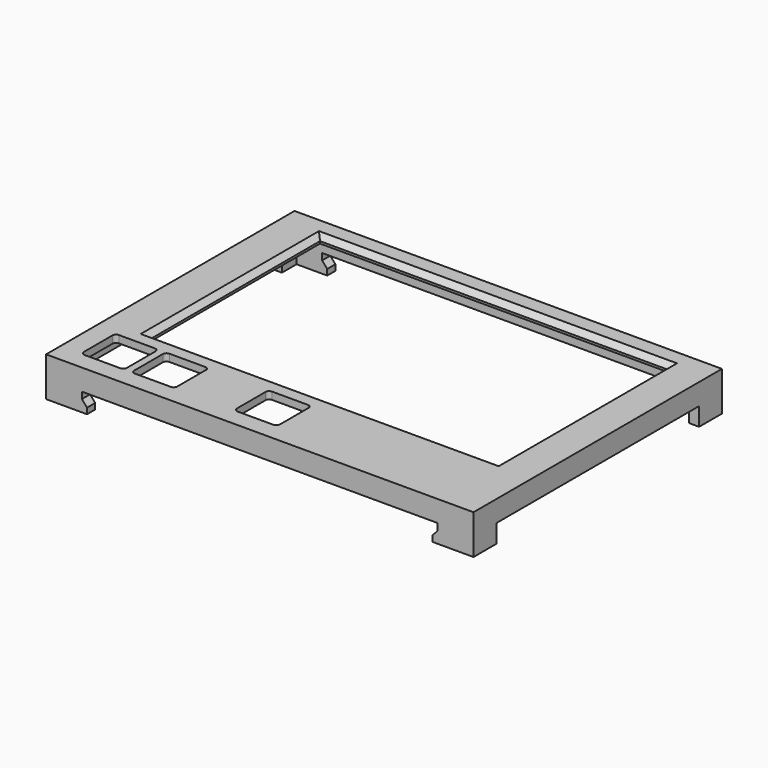
from build123d import *

# Parameters (mm, degrees)
SKETCH022_W     = 117
SKETCH022_H     = 85
PAD013_DEPTH    = 5.8
SKETCH023_W     = 95.2
SKETCH023_H     = 58.2
POCKET001_DEPTH = 5.801
SKETCH024_W     = 111.4
SKETCH024_H     = 79.4
POCKET002_DEPTH = 3.8
POCKET008_DEPTH = 5.801
PAD017_DEPTH    = 5
SKETCH044_W     = 2.8
SKETCH044_H     = 3.2
PAD018_DEPTH    = 1.4
SKETCH045_W     = 2.8
SKETCH045_H     = 3.2
PAD019_DEPTH    = 1.4
POCKET016_DEPTH = 85.001
CHAMFER001_SIZE = 1.4


with BuildPart() as part:
    # Sketch022 → Pad013 (new body)
    with BuildSketch(Plane.XY.offset(23.6)):
        with Locations((0.5, -8)):
            Rectangle(SKETCH022_W, SKETCH022_H)
    extrude(amount=-PAD013_DEPTH)

    # Sketch023 (on Face5 of Pad013) → Pocket001 (cut, through all)
    with BuildSketch(Plane.XY.offset(23.6)):
        with Locations((0.9, 0)):
            Rectangle(SKETCH023_W, SKETCH023_H)
    extrude(amount=-POCKET001_DEPTH, mode=Mode.SUBTRACT)

    # Sketch024 (on Face5 of Pocket001) → Pocket002 (cut)
    with BuildSketch(Plane(origin=(0, 0, 17.8), x_dir=(1, 0, 0), z_dir=(0, 0, -1))):
        with Locations((0.5, 8)):
            Rectangle(SKETCH024_W, SKETCH024_H)
    extrude(amount=-POCKET002_DEPTH, mode=Mode.SUBTRACT)

    # Sketch031 (on Face4 of Pocket002) → Pocket008 (cut, through all)
    with BuildSketch(Plane.XY.offset(23.6)):
        with BuildLine():
            Line((-51.4, -33.8), (-41.6, -33.8))
            ThreePointArc((-40.6, -34.8), (-40.892893, -34.092893), (-41.6, -33.8))
            Line((-40.6, -34.8), (-40.6, -44.6))
            ThreePointArc((-41.6, -45.6), (-40.892893, -45.307107), (-40.6, -44.6))
            Line((-41.6, -45.6), (-51.4, -45.6))
            ThreePointArc((-52.4, -44.6), (-52.107107, -45.307107), (-51.4, -45.6))
            Line((-52.4, -44.6), (-52.4, -34.8))
            ThreePointArc((-51.4, -33.8), (-52.107107, -34.092893), (-52.4, -34.8))
        make_face()
        with BuildLine():
            Line((-37.6, -33.8), (-27.8, -33.8))
            ThreePointArc((-26.8, -34.8), (-27.092893, -34.092893), (-27.8, -33.8))
            Line((-26.8, -34.8), (-26.8, -44.6))
            ThreePointArc((-27.8, -45.6), (-27.092893, -45.307107), (-26.8, -44.6))
            Line((-27.8, -45.6), (-37.6, -45.6))
            ThreePointArc((-38.6, -44.6), (-38.307107, -45.307107), (-37.6, -45.6))
            Line((-38.6, -44.6), (-38.6, -34.8))
            ThreePointArc((-37.6, -33.8), (-38.307107, -34.092893), (-38.6, -34.8))
        make_face()
        with BuildLine():
            Line((-9.5, -33.8), (0.3, -33.8))
            ThreePointArc((1.3, -34.8), (1.007107, -34.092893), (0.3, -33.8))
            Line((1.3, -34.8), (1.3, -44.6))
            ThreePointArc((0.3, -45.6), (1.007107, -45.307107), (1.3, -44.6))
            Line((0.3, -45.6), (-9.5, -45.6))
            ThreePointArc((-10.5, -44.6), (-10.207107, -45.307107), (-9.5, -45.6))
            Line((-10.5, -44.6), (-10.5, -34.8))
            ThreePointArc((-9.5, -33.8), (-10.207107, -34.092893), (-10.5, -34.8))
        make_face()
    extrude(amount=-POCKET008_DEPTH, mode=Mode.SUBTRACT)

    # Sketch038 (on Face5 of Pocket008) → Pad017 (join)
    with BuildSketch(Plane(origin=(0, 0, 17.8), x_dir=(1, 0, 0), z_dir=(0, 0, -1))):
        Polygon((-58, 50.5), (-48.2, 50.5), (-48.2, 47.7), (-55.2, 47.7), (-55.2, 42.7), (-58, 42.7), align=None)
        Polygon((59, 50.5), (49.2, 50.5), (49.2, 47.7), (56.2, 47.7), (56.2, 42.7), (59, 42.7), align=None)
        Polygon((59, -34.5), (49.2, -34.5), (49.2, -31.7), (56.2, -31.7), (56.2, -26.7), (59, -26.7), align=None)
        Polygon((-58, -34.5), (-48.2, -34.5), (-48.2, -31.7), (-55.2, -31.7), (-55.2, -26.7), (-58, -26.7), align=None)
    extrude(amount=PAD017_DEPTH)

    # Sketch044 (on Face66 of Pad017) → Pad018 (join)
    with BuildSketch(Plane.YZ.offset(-48.2)):
        with Locations((-49.1, 14.4)):
            Rectangle(SKETCH044_W, SKETCH044_H)
        with Locations((33.1, 14.4)):
            Rectangle(SKETCH044_W, SKETCH044_H)
    extrude(amount=PAD018_DEPTH)

    # Sketch045 (on Face68 of Pad018) → Pad019 (join)
    with BuildSketch(Plane(origin=(49.2, 0, 0), x_dir=(0, -1, 0), z_dir=(-1, 0, 0))):
        with Locations((-33.1, 14.4)):
            Rectangle(SKETCH045_W, SKETCH045_H)
        with Locations((49.1, 14.4)):
            Rectangle(SKETCH045_W, SKETCH045_H)
    extrude(amount=PAD019_DEPTH)

    # Sketch046 (on Face76 of Pad019) → Pocket016 (cut, through all)
    with BuildSketch(Plane.XZ.offset(50.5)):
        Polygon((-48.2, 16), (-46.8, 16), (-46.8, 14.4), align=None)
        Polygon((47.8, 16), (49.2, 16), (47.8, 14.4), align=None)
    extrude(amount=-POCKET016_DEPTH, mode=Mode.SUBTRACT)

    # Chamfer001
    chamfer001_edges = [part.edges().sort_by_distance(p)[0] for p in [
        (0.9, 29.1, 23.6),
        (-46.7, 0, 23.6),
        (48.5, 0, 23.6),
        (0.9, -29.1, 23.6),
    ]]
    chamfer(chamfer001_edges, length=CHAMFER001_SIZE)


solid = part.part
